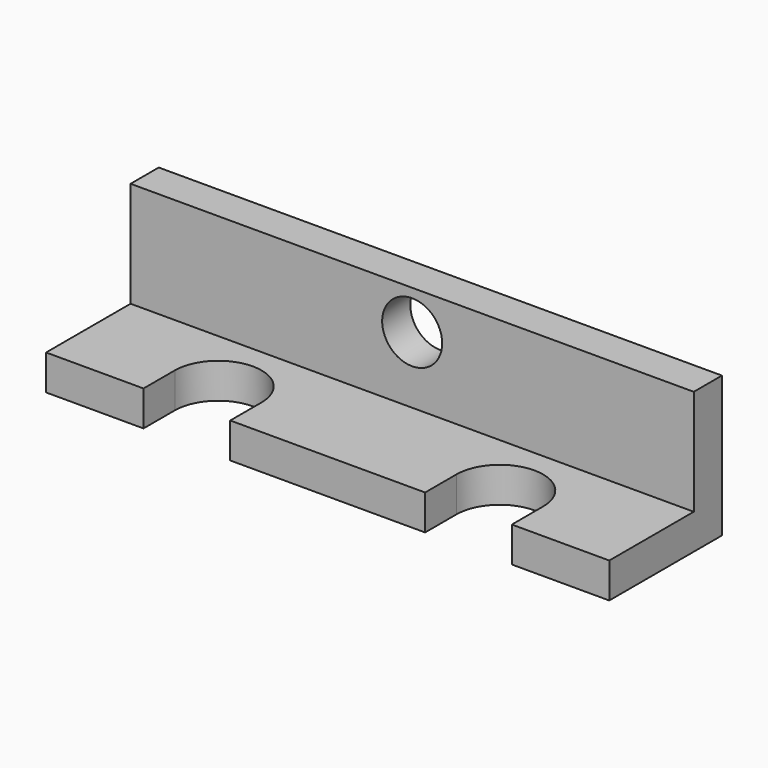
from build123d import *

# Parameters (mm, degrees)
F1_DEPTH = 25.4
F3_DEPTH = 1.5885
F4_R     = 1.35255
F5_DEPTH = 1.5885


with BuildPart() as f1:
    # F0 (on Right) → F1 (new body)
    with BuildSketch(Plane.YZ):
        Polygon((-6.35, 1.5875), (-6.35, 0), (0, 0), (0, 6.35), (-1.5875, 6.35), (-1.5875, 1.5875), align=None)
    extrude(amount=F1_DEPTH)

    # F2 (on face) → F3 (cut, through all)
    with BuildSketch(Plane.XY.offset(1.5875)):
        with BuildLine():
            Line((8.3058, -6.35), (8.3058, -4.5847))
            ThreePointArc((8.3058, -4.5847), (6.35, -2.6289), (4.3942, -4.5847))
            Line((4.3942, -4.5847), (4.3942, -6.35))
            Line((4.3942, -6.35), (8.3058, -6.35))
        make_face()
        with BuildLine():
            ThreePointArc((21.0058, -4.5847), (19.05, -2.6289), (17.0942, -4.5847))
            Line((17.0942, -4.5847), (17.0942, -6.35))
            Line((17.0942, -6.35), (21.0058, -6.35))
            Line((21.0058, -6.35), (21.0058, -4.5847))
        make_face()
    extrude(amount=-F3_DEPTH, mode=Mode.SUBTRACT)

    # F4 (on face) → F5 (cut, through all)
    with BuildSketch(Plane.XZ.offset(1.5875)):
        with Locations((12.7, 4.5847)):
            Circle(F4_R)
    extrude(amount=-F5_DEPTH, mode=Mode.SUBTRACT)


solid = f1.part
